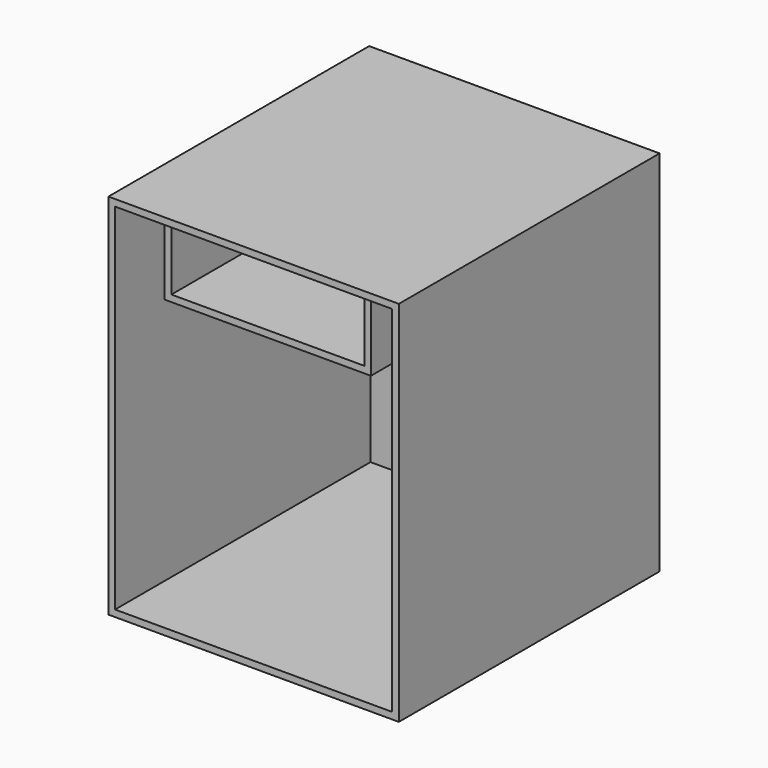
from build123d import *

# Parameters (mm, degrees)
F0_W     = 831.85
F0_H     = 1054.1
F0_W_2   = 793.75
F0_H_2   = 1016
F1_DEPTH = 914.4
F2_W     = 831.85
F2_H     = 1054.1
F3_DEPTH = 19.05
F6_DEPTH = 406.4


with BuildPart() as f1:
    # F0 (on Front) → F1 (new body)
    with BuildSketch(Plane.XZ):
        with Locations((396.875, 508)):
            Rectangle(F0_W, F0_H)
        with Locations((396.875, 508)):
            Rectangle(F0_W_2, F0_H_2, mode=Mode.SUBTRACT)
    extrude(amount=-F1_DEPTH)

    # F2 (on face) → F3 (join)
    with BuildSketch(Plane(origin=(0, 914.4, 0), x_dir=(-1, 0, 0), z_dir=(0, 1, 0))):
        with Locations((-396.875, 508)):
            Rectangle(F2_W, F2_H)
    extrude(amount=F3_DEPTH)

    # F5 (on offset) → F6 (join)
    with BuildSketch(Plane.XZ.offset(-50.8)):
        Polygon((120.65, 1016), (101.6, 1016), (101.6, 793.75), (692.15, 793.75), (692.15, 1016), (673.1, 1016), (673.1, 812.8), (120.65, 812.8), align=None)
    extrude(amount=-F6_DEPTH)


solid = f1.part
